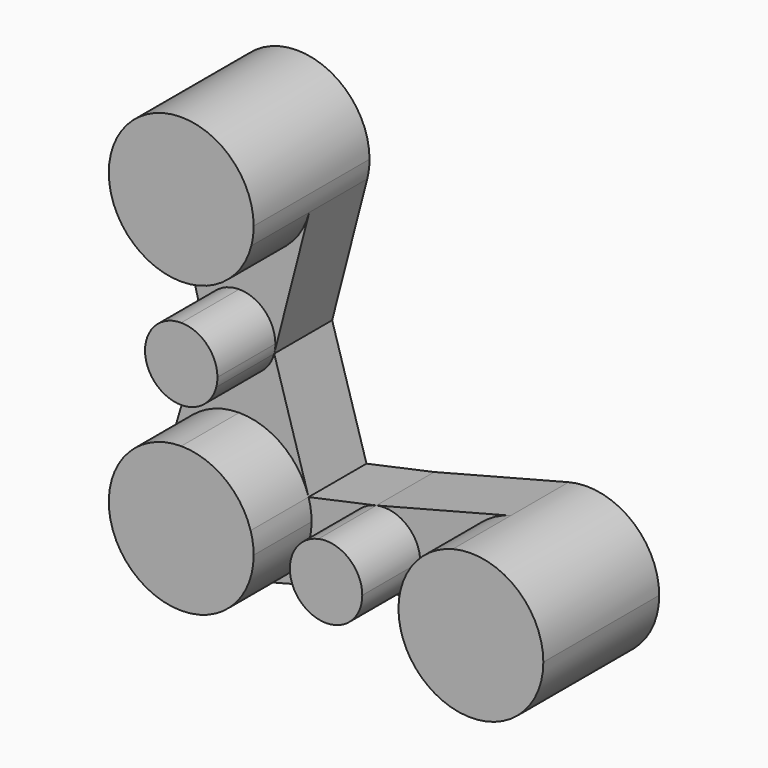
from build123d import *

# Parameters (mm, degrees)
F1_DEPTH = 50.8
F2_DEPTH = 25.4


with BuildPart() as f1:
    # F0 (on Front) → F1 (new body)
    with BuildSketch(Plane.XZ):
        with BuildLine():
            ThreePointArc((-137.587486, -1.553076), (-122.033226, 3.766461), (-112.994041, 17.496924))
            ThreePointArc((-112.994041, 17.496924), (-112.389931, 20.646415), (-112.187486, 23.846924))
            ThreePointArc((-112.187486, 23.846924), (-140.787995, 49.044478), (-162.18093, 17.496924))
            ThreePointArc((-162.18093, 17.496924), (-153.141745, 3.766461), (-137.587486, -1.553076))
        make_face()
        with BuildLine():
            ThreePointArc((-149.884208, -30.128076), (-145.364616, -36.993308), (-137.587486, -39.653076))
            Line((-137.587486, -39.653076), (-137.587486, -26.953076))
            Line((-137.587486, -26.953076), (-137.587486, -14.253076))
            ThreePointArc((-137.587486, -14.253076), (-147.627717, -19.175946), (-149.884208, -30.128076))
        make_face()
        with BuildLine():
            Line((-137.587486, -52.353076), (-137.587486, -77.753076))
            Line((-137.587486, -77.753076), (-112.187486, -77.753076))
            ThreePointArc((-112.187486, -77.753076), (-112.45396, -74.083486), (-113.247792, -70.490891))
            ThreePointArc((-113.247792, -70.490891), (-122.410192, -57.386198), (-137.587486, -52.353076))
        make_face()
        with BuildLine():
            Line((-112.187486, -77.753076), (-137.587486, -77.753076))
            Line((-137.587486, -77.753076), (-137.587486, -52.353076))
            ThreePointArc((-137.587486, -52.353076), (-152.76478, -57.386198), (-161.927179, -70.490891))
            ThreePointArc((-161.927179, -70.490891), (-155.87963, -95.375717), (-131.237486, -102.346521))
            ThreePointArc((-131.237486, -102.346521), (-117.507022, -93.307336), (-112.187486, -77.753076))
        make_face()
        with BuildLine():
            Line((-137.587486, -26.953076), (-137.587486, -39.653076))
            ThreePointArc((-137.587486, -39.653076), (-129.810356, -36.993308), (-125.290763, -30.128076))
            ThreePointArc((-125.290763, -30.128076), (-124.988708, -28.553331), (-124.887486, -26.953076))
            ThreePointArc((-124.887486, -26.953076), (-128.607229, -17.97282), (-137.587486, -14.253076))
            Line((-137.587486, -14.253076), (-137.587486, -26.953076))
        make_face()
        with BuildLine():
            ThreePointArc((-89.476467, -65.341011), (-96.67283, -69.779999), (-99.487486, -77.753076))
            Line((-99.487486, -77.753076), (-86.787486, -77.753076))
            Line((-86.787486, -77.753076), (-74.087486, -77.753076))
            ThreePointArc((-74.087486, -77.753076), (-78.814408, -67.867732), (-89.476467, -65.341011))
        make_face()
        with BuildLine():
            Line((-86.787486, -77.753076), (-99.487486, -77.753076))
            ThreePointArc((-99.487486, -77.753076), (-94.564616, -87.793308), (-83.612486, -90.049798))
            ThreePointArc((-83.612486, -90.049798), (-76.747254, -85.530206), (-74.087486, -77.753076))
            Line((-74.087486, -77.753076), (-86.787486, -77.753076))
        make_face()
        with BuildLine():
            ThreePointArc((-10.587486, -77.753076), (-20.435252, -57.671044), (-42.342448, -53.160914))
            ThreePointArc((-42.342448, -53.160914), (-56.069518, -62.200842), (-61.387486, -77.753076))
            ThreePointArc((-61.387486, -77.753076), (-56.354364, -92.93037), (-43.24967, -102.09277))
            ThreePointArc((-43.24967, -102.09277), (-20.810192, -98.119955), (-10.587486, -77.753076))
        make_face()
    extrude(amount=F1_DEPTH)


with BuildPart() as f2:
    # F0 (on Front) → F2 (new body)
    with BuildSketch(Plane.XZ):
        with BuildLine():
            Line((-162.18093, 17.496924), (-149.884208, -30.128076))
            ThreePointArc((-149.884208, -30.128076), (-147.627717, -19.175946), (-137.587486, -14.253076))
            Line((-137.587486, -14.253076), (-137.587486, -1.553076))
            ThreePointArc((-137.587486, -1.553076), (-153.141745, 3.766461), (-162.18093, 17.496924))
        make_face()
        with BuildLine():
            ThreePointArc((-124.887486, -26.953076), (-124.988708, -28.553331), (-125.290763, -30.128076))
            Line((-125.290763, -30.128076), (-112.994041, 17.496924))
            ThreePointArc((-112.994041, 17.496924), (-122.033226, 3.766461), (-137.587486, -1.553076))
            Line((-137.587486, -1.553076), (-137.587486, -14.253076))
            ThreePointArc((-137.587486, -14.253076), (-128.607229, -17.97282), (-124.887486, -26.953076))
        make_face()
        with BuildLine():
            ThreePointArc((-161.927179, -70.490891), (-152.76478, -57.386198), (-137.587486, -52.353076))
            Line((-137.587486, -52.353076), (-137.587486, -39.653076))
            ThreePointArc((-137.587486, -39.653076), (-145.364616, -36.993308), (-149.884208, -30.128076))
            Line((-149.884208, -30.128076), (-161.927179, -70.490891))
        make_face()
        with BuildLine():
            Line((-137.587486, -39.653076), (-137.587486, -52.353076))
            ThreePointArc((-137.587486, -52.353076), (-122.410192, -57.386198), (-113.247792, -70.490891))
            Line((-113.247792, -70.490891), (-125.290763, -30.128076))
            ThreePointArc((-125.290763, -30.128076), (-129.810356, -36.993308), (-137.587486, -39.653076))
        make_face()
        with BuildLine():
            Line((-99.487486, -77.753076), (-112.187486, -77.753076))
            ThreePointArc((-112.187486, -77.753076), (-117.507022, -93.307336), (-131.237486, -102.346521))
            Line((-131.237486, -102.346521), (-83.612486, -90.049798))
            ThreePointArc((-83.612486, -90.049798), (-94.564616, -87.793308), (-99.487486, -77.753076))
        make_face()
        with BuildLine():
            ThreePointArc((-113.247792, -70.490891), (-112.45396, -74.083486), (-112.187486, -77.753076))
            Line((-112.187486, -77.753076), (-99.487486, -77.753076))
            ThreePointArc((-99.487486, -77.753076), (-96.67283, -69.779999), (-89.476467, -65.341011))
            Line((-89.476467, -65.341011), (-113.247792, -70.490891))
        make_face()
        with BuildLine():
            ThreePointArc((-74.087486, -77.753076), (-76.747254, -85.530206), (-83.612486, -90.049798))
            Line((-83.612486, -90.049798), (-43.24967, -102.09277))
            ThreePointArc((-43.24967, -102.09277), (-56.354364, -92.93037), (-61.387486, -77.753076))
            Line((-61.387486, -77.753076), (-74.087486, -77.753076))
        make_face()
        with BuildLine():
            Line((-42.342448, -53.160914), (-89.476467, -65.341011))
            ThreePointArc((-89.476467, -65.341011), (-78.814408, -67.867732), (-74.087486, -77.753076))
            Line((-74.087486, -77.753076), (-61.387486, -77.753076))
            ThreePointArc((-61.387486, -77.753076), (-56.069518, -62.200842), (-42.342448, -53.160914))
        make_face()
    extrude(amount=F2_DEPTH)


solid = Compound([f1.part, f2.part])
